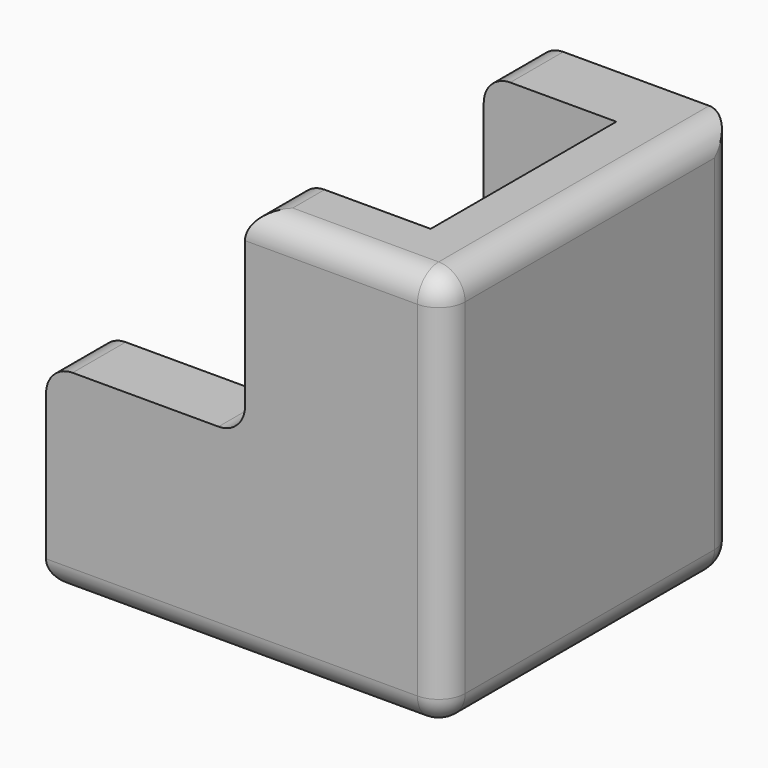
from build123d import *

# Parameters (mm, degrees)
SKETCH_W     = 30
SKETCH_H     = 27.5
PAD_DEPTH    = 5
PAD001_DEPTH = 25
SKETCH002_W  = 15
SKETCH002_H  = 15
POCKET_DEPTH = 27.5
FILLET_R     = 2


with BuildPart() as part:
    # Sketch → Pad (new body)
    with BuildSketch(Plane.XY):
        with Locations((2.5, 0)):
            Rectangle(SKETCH_W, SKETCH_H)
    extrude(amount=-PAD_DEPTH)

    # Sketch001 → Pad001 (join)
    with BuildSketch(Plane.XY):
        Polygon((-12.5, 8.75), (12.5, 8.75), (12.5, -8.75), (-12.5, -8.75), (-12.5, -13.75), (17.5, -13.75), (17.5, 13.75), (-12.5, 13.75), align=None)
    extrude(amount=PAD001_DEPTH)

    # Sketch002 (on Face2 of Pad001) → Pocket (cut)
    with BuildSketch(Plane.XZ.offset(13.75)):
        with Locations((-5, 17.5)):
            Rectangle(SKETCH002_W, SKETCH002_H)
    extrude(amount=-POCKET_DEPTH, mode=Mode.SUBTRACT)

    # Fillet
    fillet_edges = [part.edges().sort_by_distance(p)[0] for p in [
        (2.5, 11.25, 25),
        (2.5, 11.25, 10),
        (-12.5, 11.25, 10),
        (2.5, -11.25, 25),
        (2.5, -11.25, 10),
        (-12.5, -11.25, 10),
        (17.5, 0, 25),
        (-12.5, 0, -5),
        (17.5, 0, -5),
        (17.5, 13.75, 10),
        (2.5, 13.75, -5),
        (10, -13.75, 25),
        (2.5, -13.75, -5),
        (17.5, -13.75, 10),
    ]]
    fillet(fillet_edges, radius=FILLET_R)


solid = part.part
